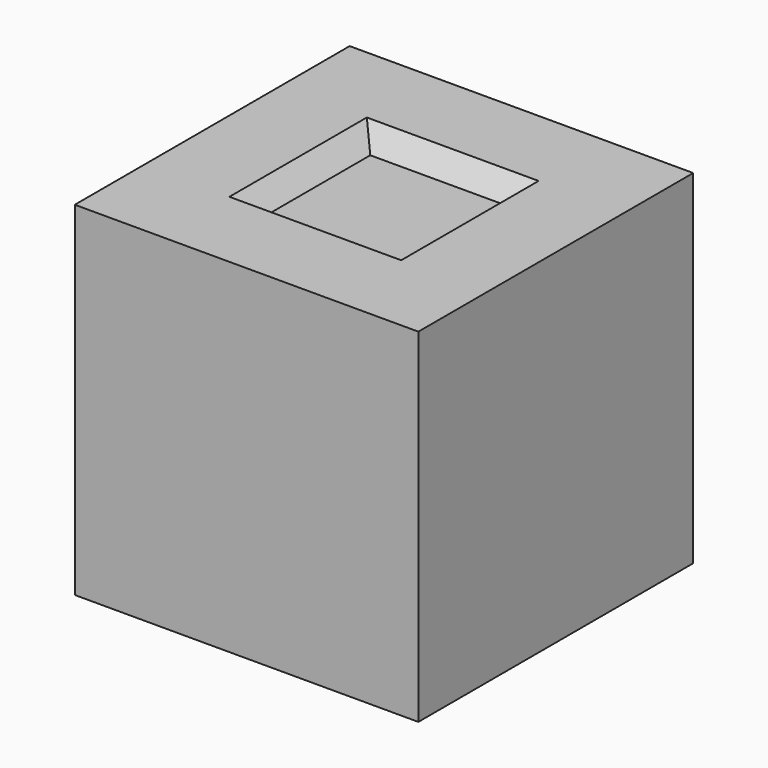
from build123d import *

# Parameters (mm, degrees)
F0_W     = 10
F0_H     = 10
F1_DEPTH = 10
F2_W     = 5
F2_H     = 5
F3_DEPTH = 0.6
F3_TAPER = 40


with BuildPart() as f1:
    # F0 (on Top) → F1 (new body)
    with BuildSketch(Plane.XY):
        Rectangle(F0_W, F0_H)
    extrude(amount=F1_DEPTH)

    # F2 (on face) → F3 (cut)
    with BuildSketch(Plane.XY.offset(10)):
        Rectangle(F2_W, F2_H)
    extrude(amount=-F3_DEPTH, taper=F3_TAPER, mode=Mode.SUBTRACT)


solid = f1.part
